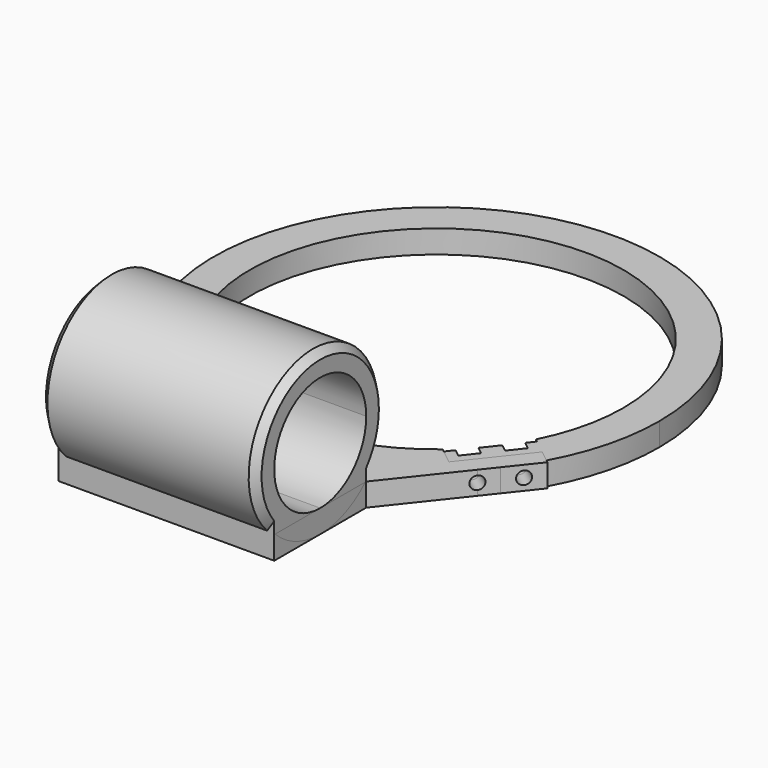
from build123d import *

# Parameters (mm, degrees)
F1_DEPTH  = 4.064
F2_DEPTH  = 4.064
F4_DEPTH  = 12.7
F5_R      = 1.143
F6_DEPTH  = 12.7
F7_R      = 1.143
F8_DEPTH  = 1.651
F9_R      = 1.143
F10_DEPTH = 1.651
F12_DEPTH = 19.05
F13_SIZE  = 1.27


with BuildPart() as f1:
    # F0 (on Top) → F1 (new body)
    with BuildSketch(Plane.XY):
        with BuildLine():
            ThreePointArc((-29.4677101906, -14.8988072046), (-7.6582181186, 32.1196527884), (33.02, 0))
            ThreePointArc((33.02, 0), (32.1196527884, -7.6582181186), (29.4677101906, -14.8988072046))
            Line((29.4677101906, -14.8988072046), (29.990846543, -15.3128161889))
            Line((29.990846543, -15.3128161889), (25.8925801012, -20.4913322091))
            Line((25.8925801012, -20.4913322091), (28.3822512648, -22.4616526138))
            Line((28.3822512648, -22.4616526138), (29.1703794266, -21.4657841484))
            Line((29.1703794266, -21.4657841484), (30.4313844857, -19.8723946037))
            Line((30.4313844857, -19.8723946037), (31.6923895447, -18.279005059))
            Line((31.6923895447, -18.279005059), (32.4805177066, -17.2831365936))
            Line((32.4805177066, -17.2831365936), (34.5327627618, -18.9072789168))
            ThreePointArc((34.5327627618, -18.9072789168), (38.1415244185, -9.7581255902), (39.37, 0))
            ThreePointArc((39.37, 0), (-9.7581255902, 38.1415244185), (-34.5327627618, -18.9072789168))
            Line((-34.5327627618, -18.9072789168), (-32.4805177066, -17.2831365936))
            Line((-32.4805177066, -17.2831365936), (-30.4313844857, -19.8723946037))
            Line((-30.4313844857, -19.8723946037), (-28.3822512648, -22.4616526138))
            Line((-28.3822512648, -22.4616526138), (-25.8925801012, -20.4913322091))
            Line((-25.8925801012, -20.4913322091), (-29.990846543, -15.3128161889))
            Line((-29.990846543, -15.3128161889), (-29.4677101906, -14.8988072046))
        make_face()
        Polygon((-21.7943136594, -25.6698482293), (-25.8925801012, -20.4913322091), (-28.3822512648, -22.4616526138), (-26.3331180438, -25.0509106239), (-24.2839848229, -27.6401686341), align=None)
        Polygon((28.3822512648, -22.4616526138), (25.8925801012, -20.4913322091), (21.7943136594, -25.6698482293), (24.2839848229, -27.6401686341), (25.0721129848, -26.6443001686), (26.3331180438, -25.0509106239), (27.5941231029, -23.4575210793), align=None)
        Polygon((-21.7943136594, -25.6698482293), (-25.8925801012, -20.4913322091), (-28.3822512648, -22.4616526138), (-26.3331180438, -25.0509106239), (-24.2839848229, -27.6401686341), align=None)
    extrude(amount=-F1_DEPTH)


with BuildPart() as f2:
    # F0 (on Top) → F2 (new body)
    with BuildSketch(Plane.XY):
        Polygon((0, -59.69), (0, -39.37), (-10.9520430108, -39.37), (-15.0010215054, -39.37), (-19.05, -39.37), (-19.05, -59.69), align=None)
        Polygon((10.9520430108, -39.37), (0, -39.37), (0, -59.69), (19.05, -59.69), (19.05, -39.37), (15.0010215054, -39.37), align=None)
        with BuildLine():
            ThreePointArc((-18.7699951594, -34.6075740513), (-24.0499346053, -31.1704595006), (-28.714015795, -26.935147984))
            Line((-28.714015795, -26.935147984), (-28.8227892074, -27.0212310287))
            Line((-28.8227892074, -27.0212310287), (-19.05, -39.37))
            Line((-19.05, -39.37), (-15.0010215054, -39.37))
            Line((-15.0010215054, -39.37), (-18.7699951594, -34.6075740513))
        make_face()
        with BuildLine():
            Line((-10.9520430108, -39.37), (-12.5874453828, -37.3035268941))
            ThreePointArc((-12.5874453828, -37.3035268941), (-15.7365596549, -36.0881918393), (-18.7699951594, -34.6075740513))
            Line((-18.7699951594, -34.6075740513), (-15.0010215054, -39.37))
            Line((-15.0010215054, -39.37), (-10.9520430108, -39.37))
        make_face()
        with BuildLine():
            ThreePointArc((0, -39.37), (-6.3779717066, -38.8499469357), (-12.5874453828, -37.3035268941))
            Line((-12.5874453828, -37.3035268941), (-10.9520430108, -39.37))
            Line((-10.9520430108, -39.37), (0, -39.37))
        make_face()
        with BuildLine():
            ThreePointArc((21.271177307, -25.2558392451), (0, -33.02), (-21.271177307, -25.2558392451))
            Line((-21.271177307, -25.2558392451), (-21.7943136594, -25.6698482293))
            Line((-21.7943136594, -25.6698482293), (-12.5874453828, -37.3035268941))
            ThreePointArc((-12.5874453828, -37.3035268941), (-6.3779717066, -38.8499469357), (0, -39.37))
            ThreePointArc((0, -39.37), (6.3779717066, -38.8499469357), (12.5874453828, -37.3035268941))
            Line((12.5874453828, -37.3035268941), (21.7943136594, -25.6698482293))
            Line((21.7943136594, -25.6698482293), (21.271177307, -25.2558392451))
        make_face()
        with BuildLine():
            Line((24.2839848229, -27.6401686341), (21.7943136594, -25.6698482293))
            Line((21.7943136594, -25.6698482293), (12.5874453828, -37.3035268941))
            ThreePointArc((12.5874453828, -37.3035268941), (15.7365596549, -36.0881918393), (18.7699951594, -34.6075740513))
            Line((18.7699951594, -34.6075740513), (24.2839848229, -27.6401686341))
        make_face()
        with BuildLine():
            Line((10.9520430108, -39.37), (12.5874453828, -37.3035268941))
            ThreePointArc((12.5874453828, -37.3035268941), (6.3779717066, -38.8499469357), (0, -39.37))
            Line((0, -39.37), (10.9520430108, -39.37))
        make_face()
        with BuildLine():
            ThreePointArc((18.7699951594, -34.6075740513), (15.7365596549, -36.0881918393), (12.5874453828, -37.3035268941))
            Line((12.5874453828, -37.3035268941), (10.9520430108, -39.37))
            Line((10.9520430108, -39.37), (15.0010215054, -39.37))
            Line((15.0010215054, -39.37), (18.7699951594, -34.6075740513))
        make_face()
        with BuildLine():
            Line((28.8227892074, -27.0212310287), (28.714015795, -26.935147984))
            ThreePointArc((28.714015795, -26.935147984), (24.0499346053, -31.1704595006), (18.7699951594, -34.6075740513))
            Line((18.7699951594, -34.6075740513), (15.0010215054, -39.37))
            Line((15.0010215054, -39.37), (19.05, -39.37))
            Line((19.05, -39.37), (28.8227892074, -27.0212310287))
        make_face()
        with BuildLine():
            Line((25.0721129848, -26.6443001686), (24.2839848229, -27.6401686341))
            Line((24.2839848229, -27.6401686341), (18.7699951594, -34.6075740513))
            ThreePointArc((18.7699951594, -34.6075740513), (24.0499346053, -31.1704595006), (28.714015795, -26.935147984))
            Line((28.714015795, -26.935147984), (26.3331180438, -25.0509106239))
            Line((26.3331180438, -25.0509106239), (25.0721129848, -26.6443001686))
        make_face()
        with BuildLine():
            Line((28.8227892074, -27.0212310287), (30.8719224283, -24.4319730185))
            ThreePointArc((30.8719224283, -24.4319730185), (29.8192468, -25.7062136512), (28.714015795, -26.935147984))
            Line((28.714015795, -26.935147984), (28.8227892074, -27.0212310287))
        make_face()
        with BuildLine():
            Line((30.8719224283, -24.4319730185), (28.3822512648, -22.4616526138))
            Line((28.3822512648, -22.4616526138), (27.5941231029, -23.4575210793))
            Line((27.5941231029, -23.4575210793), (26.3331180438, -25.0509106239))
            Line((26.3331180438, -25.0509106239), (28.714015795, -26.935147984))
            ThreePointArc((28.714015795, -26.935147984), (29.8192468, -25.7062136512), (30.8719224283, -24.4319730185))
        make_face()
        with BuildLine():
            Line((29.1703794266, -21.4657841484), (28.3822512648, -22.4616526138))
            Line((28.3822512648, -22.4616526138), (30.8719224283, -24.4319730185))
            ThreePointArc((30.8719224283, -24.4319730185), (31.8701873763, -23.1146718904), (32.8122822369, -21.7566319638))
            Line((32.8122822369, -21.7566319638), (30.4313844857, -19.8723946037))
            Line((30.4313844857, -19.8723946037), (29.1703794266, -21.4657841484))
        make_face()
        with BuildLine():
            Line((30.4313844857, -19.8723946037), (32.8122822369, -21.7566319638))
            ThreePointArc((32.8122822369, -21.7566319638), (33.702647888, -20.3501455851), (34.5327627618, -18.9072789168))
            Line((34.5327627618, -18.9072789168), (32.4805177066, -17.2831365936))
            Line((32.4805177066, -17.2831365936), (31.6923895447, -18.279005059))
            Line((31.6923895447, -18.279005059), (30.4313844857, -19.8723946037))
        make_face()
        with BuildLine():
            Line((-12.5874453828, -37.3035268941), (-21.7943136594, -25.6698482293))
            Line((-21.7943136594, -25.6698482293), (-24.2839848229, -27.6401686341))
            Line((-24.2839848229, -27.6401686341), (-18.7699951594, -34.6075740513))
            ThreePointArc((-18.7699951594, -34.6075740513), (-15.7365596549, -36.0881918393), (-12.5874453828, -37.3035268941))
        make_face()
        with BuildLine():
            ThreePointArc((-28.714015795, -26.935147984), (-29.8192468, -25.7062136512), (-30.8719224283, -24.4319730185))
            Line((-30.8719224283, -24.4319730185), (-28.8227892074, -27.0212310287))
            Line((-28.8227892074, -27.0212310287), (-28.714015795, -26.935147984))
        make_face()
        with BuildLine():
            Line((-24.2839848229, -27.6401686341), (-26.3331180438, -25.0509106239))
            Line((-26.3331180438, -25.0509106239), (-28.714015795, -26.935147984))
            ThreePointArc((-28.714015795, -26.935147984), (-24.0499346053, -31.1704595006), (-18.7699951594, -34.6075740513))
            Line((-18.7699951594, -34.6075740513), (-24.2839848229, -27.6401686341))
        make_face()
        with BuildLine():
            Line((-26.3331180438, -25.0509106239), (-28.3822512648, -22.4616526138))
            Line((-28.3822512648, -22.4616526138), (-30.8719224283, -24.4319730185))
            ThreePointArc((-30.8719224283, -24.4319730185), (-29.8192468, -25.7062136512), (-28.714015795, -26.935147984))
            Line((-28.714015795, -26.935147984), (-26.3331180438, -25.0509106239))
        make_face()
        with BuildLine():
            Line((-30.8719224283, -24.4319730185), (-28.3822512648, -22.4616526138))
            Line((-28.3822512648, -22.4616526138), (-30.4313844857, -19.8723946037))
            Line((-30.4313844857, -19.8723946037), (-32.8122822369, -21.7566319638))
            ThreePointArc((-32.8122822369, -21.7566319638), (-31.8701873763, -23.1146718904), (-30.8719224283, -24.4319730185))
        make_face()
        with BuildLine():
            Line((-32.8122822369, -21.7566319638), (-30.4313844857, -19.8723946037))
            Line((-30.4313844857, -19.8723946037), (-32.4805177066, -17.2831365936))
            Line((-32.4805177066, -17.2831365936), (-34.5327627618, -18.9072789168))
            ThreePointArc((-34.5327627618, -18.9072789168), (-33.702647888, -20.3501455851), (-32.8122822369, -21.7566319638))
        make_face()
        with BuildLine():
            ThreePointArc((32.8122822369, -21.7566319638), (31.8701873763, -23.1146718904), (30.8719224283, -24.4319730185))
            Line((30.8719224283, -24.4319730185), (34.9701888702, -19.2534569983))
            Line((34.9701888702, -19.2534569983), (34.5327627618, -18.9072789168))
            ThreePointArc((34.5327627618, -18.9072789168), (33.702647888, -20.3501455851), (32.8122822369, -21.7566319638))
        make_face()
        with BuildLine():
            Line((-32.8122822369, -21.7566319638), (-30.4313844857, -19.8723946037))
            Line((-30.4313844857, -19.8723946037), (-32.4805177066, -17.2831365936))
            Line((-32.4805177066, -17.2831365936), (-34.5327627618, -18.9072789168))
            ThreePointArc((-34.5327627618, -18.9072789168), (-33.702647888, -20.3501455851), (-32.8122822369, -21.7566319638))
        make_face()
        with BuildLine():
            Line((-34.9701888702, -19.2534569983), (-30.8719224283, -24.4319730185))
            ThreePointArc((-30.8719224283, -24.4319730185), (-31.8701873763, -23.1146718904), (-32.8122822369, -21.7566319638))
            ThreePointArc((-32.8122822369, -21.7566319638), (-33.702647888, -20.3501455851), (-34.5327627618, -18.9072789168))
            Line((-34.5327627618, -18.9072789168), (-34.9701888702, -19.2534569983))
        make_face()
    extrude(amount=-F2_DEPTH)


with BuildPart() as f4_tool:
    # F3 (on face) → F4 (new body, symmetric)
    with BuildSketch(Plane(origin=(-28.3822512648, -22.4616526138, 0), x_dir=(0.6205733558, -0.784148398, 0), z_dir=(-0.784148398, -0.6205733558, 0))):
        with BuildLine():
            ThreePointArc((-2.159, -2.032), (-4.1102230509, -1.2237769491), (-3.302, -3.175))
            ThreePointArc((-3.302, -3.175), (-2.4937769491, -2.8402230509), (-2.159, -2.032))
        make_face()
        with BuildLine():
            ThreePointArc((4.445, -2.032), (2.4937769491, -1.2237769491), (3.302, -3.175))
            ThreePointArc((3.302, -3.175), (4.1102230509, -2.8402230509), (4.445, -2.032))
        make_face()
    extrude(amount=F4_DEPTH, both=True)


with BuildPart() as f1_1:
    add(f1.part)

    # F4: cut by f4_tool
    add(f4_tool.part, mode=Mode.SUBTRACT)


with BuildPart() as f2_1:
    add(f2.part)

    # F4: cut by f4_tool
    add(f4_tool.part, mode=Mode.SUBTRACT)


with BuildPart() as f6_tool:
    # F5 (on face) → F6 (new body, symmetric)
    with BuildSketch(Plane(origin=(28.3822512648, -22.4616526138, 0), x_dir=(0.6205733558, 0.784148398, 0), z_dir=(0.784148398, -0.6205733558, 0))):
        with Locations((-3.302, -2.032)):
            Circle(F5_R)
        with BuildLine():
            ThreePointArc((4.445, -2.032), (3.302, -0.889), (2.159, -2.032))
            ThreePointArc((2.159, -2.032), (3.302, -3.175), (4.445, -2.032))
        make_face()
    extrude(amount=F6_DEPTH, both=True)


with BuildPart() as f1_2:
    add(f1_1.part)

    # F6: cut by f6_tool
    add(f6_tool.part, mode=Mode.SUBTRACT)

    # F7 (on face) → F8 (cut)
    with BuildSketch(Plane(origin=(-25.8925801012, -20.4913322091, 0), x_dir=(-0.6205733558, 0.784148398, 0), z_dir=(0.784148398, 0.6205733558, 0))):
        Polygon((1.6888833479, -4.064), (3.302, -4.064), (4.9151166521, -4.064), (6.0882923991, -2.032), (4.9151166521, 0), (1.6888833479, 0), (0.5157076009, -2.032), align=None)
        with BuildLine():
            ThreePointArc((3.302, -3.175), (2.4937769491, -1.2237769491), (4.445, -2.032))
            ThreePointArc((4.445, -2.032), (4.1102230509, -2.8402230509), (3.302, -3.175))
        make_face(mode=Mode.SUBTRACT)
        Polygon((-4.9151166521, -4.064), (-1.6888833479, -4.064), (-0.5157076009, -2.032), (-1.6888833479, 0), (-4.9151166521, 0), (-6.0882923991, -2.032), align=None)
        with Locations((-3.302, -2.032)):
            Circle(F7_R, mode=Mode.SUBTRACT)
    extrude(amount=-F8_DEPTH, mode=Mode.SUBTRACT)

    # F9 (on face) → F10 (cut)
    with BuildSketch(Plane(origin=(25.8925801012, -20.4913322091, 0), x_dir=(-0.6205733558, -0.784148398, 0), z_dir=(-0.784148398, 0.6205733558, 0))):
        Polygon((-1.6888833479, 0), (-4.9151166521, 0), (-6.0882923991, -2.032), (-4.9151166521, -4.064), (-1.6888833479, -4.064), (-0.5157076009, -2.032), align=None)
        with Locations((-3.302, -2.032)):
            Circle(F9_R, mode=Mode.SUBTRACT)
        Polygon((4.9151166521, 0), (1.6888833479, 0), (0.5157076009, -2.032), (1.6888833479, -4.064), (4.9151166521, -4.064), (6.0882923991, -2.032), align=None)
        with Locations((3.302, -2.032)):
            Circle(F9_R, mode=Mode.SUBTRACT)
    extrude(amount=-F10_DEPTH, mode=Mode.SUBTRACT)


with BuildPart() as f2_2:
    add(f2_1.part)

    # F6: cut by f6_tool
    add(f6_tool.part, mode=Mode.SUBTRACT)

    # F11 (on Right) → F12 (join, symmetric)
    with BuildSketch(Plane.YZ):
        with BuildLine():
            ThreePointArc((-49.53, -4.064), (-44.1538333359, -3.0088650992), (-39.5752736853, 0))
            Line((-39.5752736853, 0), (-49.53, 0))
            Line((-49.53, 0), (-49.53, -4.064))
        make_face()
        with BuildLine():
            Line((-49.53, -4.064), (-49.53, 0))
            Line((-49.53, 0), (-59.4847263147, 0))
            ThreePointArc((-59.4847263147, 0), (-54.9061666641, -3.0088650992), (-49.53, -4.064))
        make_face()
        with BuildLine():
            Line((-49.53, 0), (-39.5752736853, 0))
            ThreePointArc((-39.5752736853, 0), (-39.4721131444, 0.1021131444), (-39.37, 0.2052736853))
            ThreePointArc((-39.37, 0.2052736853), (-36.3611349008, 4.7838333359), (-35.306, 10.16))
            ThreePointArc((-35.306, 10.16), (-54.9061666641, 23.3288650992), (-59.69, 0.2052736853))
            ThreePointArc((-59.69, 0.2052736853), (-59.5878868556, 0.1021131444), (-59.4847263147, 0))
            Line((-59.4847263147, 0), (-49.53, 0))
        make_face()
        with BuildLine():
            ThreePointArc((-39.37, 10.16), (-42.3457951031, 2.9757951031), (-49.53, 0))
            ThreePointArc((-49.53, 0), (-56.7142048969, 17.3442048969), (-39.37, 10.16))
        make_face(mode=Mode.SUBTRACT)
        with BuildLine():
            Line((-39.5752736853, 0), (-39.37, 0))
            Line((-39.37, 0), (-39.37, 0.2052736853))
            ThreePointArc((-39.37, 0.2052736853), (-39.4721131444, 0.1021131444), (-39.5752736853, 0))
        make_face()
        with BuildLine():
            Line((-59.69, 0), (-59.4847263147, 0))
            ThreePointArc((-59.4847263147, 0), (-59.5878868556, 0.1021131444), (-59.69, 0.2052736853))
            Line((-59.69, 0.2052736853), (-59.69, 0))
        make_face()
    extrude(amount=F12_DEPTH, both=True)

    # F13
    f13_edges = [f2_2.edges().sort_by_distance(p)[0] for p in [
        (-19.05, -49.53, 24.384),
        (19.05, -49.53, 24.384),
    ]]
    chamfer(f13_edges, length=F13_SIZE)


solid = Compound([f1_2.part, f2_2.part])
